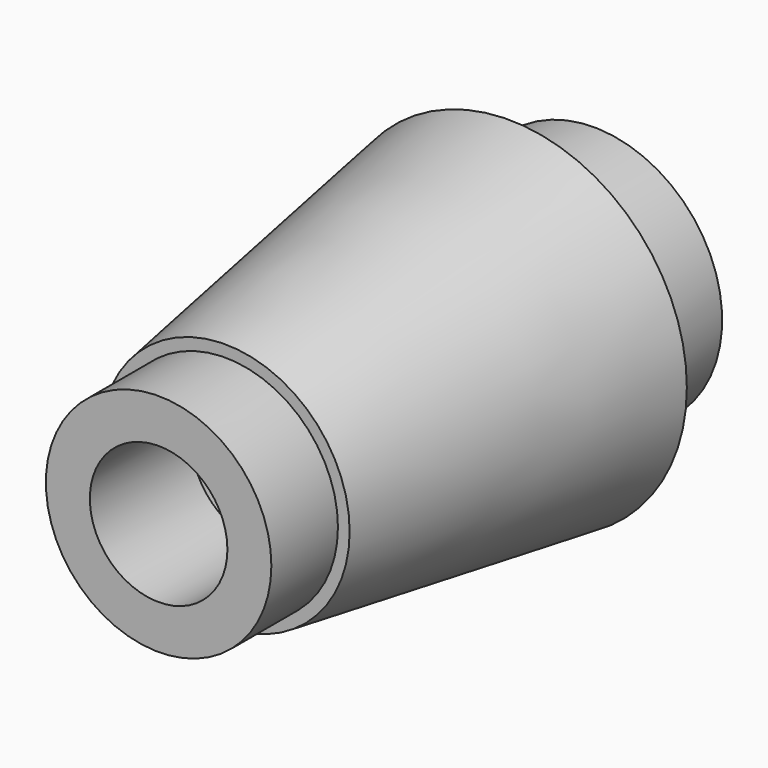
from build123d import *

# Parameters (mm, degrees)
F0_R       = 3.765
F1_DEPTH   = 7.5
F1_FACE1_R = 3.765
F2_R       = 2.6326071787
F4_R       = 2.385
F5_DEPTH   = 1.76
F6_R       = 2.7120257238
F7_DEPTH   = 2.25
F8_T       = -0.93


with BuildPart() as f1:
    # F0 (on Front) → F1 (new body)
    with BuildSketch(Plane.XZ):
        Circle(F0_R)
    extrude(amount=-F1_DEPTH)

    # F1_face1 (on face) → F3 section 0
    with BuildSketch(Plane(origin=(0, 7.5, 0), x_dir=(1, 0, 0), z_dir=(0, 1, 0))):
        Circle(F1_FACE1_R)
    # F2 (on face) → F3 section 1
    with BuildSketch(Plane.XZ):
        Circle(F2_R)
    loft(mode=Mode.INTERSECT)

    # F4 (on Front) → F5 (join)
    with BuildSketch(Plane.XZ):
        Circle(F4_R)
    extrude(amount=F5_DEPTH)

    # F6 (on face) → F7 (join)
    with BuildSketch(Plane(origin=(0, 7.5, 0), x_dir=(-1, 0, 0), z_dir=(0, 1, 0))):
        Circle(F6_R)
    extrude(amount=F7_DEPTH)

    # F8
    f8_openings = [f1.faces().sort_by_distance(p)[0] for p in [
        (0, -1.76, 0),
        (0, 9.75, 0),
    ]]
    offset(amount=F8_T, openings=f8_openings, kind=Kind.INTERSECTION)


solid = f1.part
